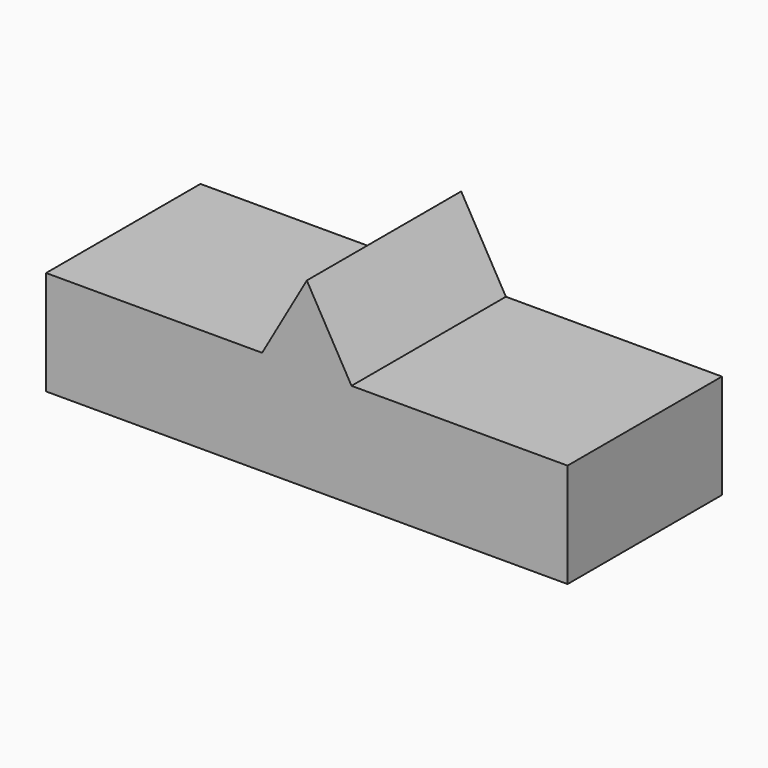
from build123d import *

# Parameters (mm, degrees)
F0_W     = 5080
F0_H     = 1778
F1_DEPTH = 1879.6
F3_DEPTH = 1879.6


with BuildPart() as f1:
    # F0 (on Front) → F1 (new body)
    with BuildSketch(Plane.XZ):
        Rectangle(F0_W, F0_H)
    extrude(amount=F1_DEPTH)

    # F2 (on face) → F3 (cut)
    with BuildSketch(Plane.XZ.offset(1879.6)):
        Polygon((-2540, 889), (-2540, 127), (-435.428571, 127), (0, 889), align=None)
        Polygon((0, 889), (435.428571, 127), (2540, 127), (2540, 889), align=None)
    extrude(amount=-F3_DEPTH, mode=Mode.SUBTRACT)


solid = f1.part
